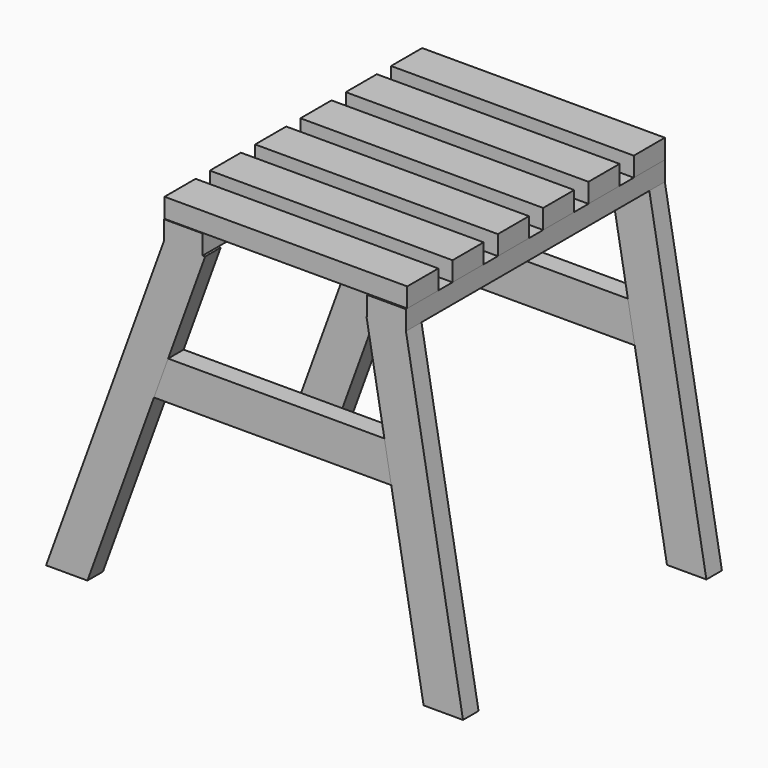
from build123d import *

# Parameters (mm, degrees)
F1_DEPTH  = 24
F2_W      = 48
F2_H      = 24
F3_DEPTH  = 400
F5_DEPTH  = 24
F6_W      = 48
F6_H      = 24
F7_DEPTH  = 300
F8_W      = 48
F8_H      = 24
F9_DEPTH  = 400
F11_DEPTH = 24
F13_DEPTH = 24
F15_DEPTH = 24
F17_DEPTH = 24


with BuildPart() as f1:
    # F0 (on Front) → F1 (new body)
    with BuildSketch(Plane.XZ):
        Polygon((145.588094, 400), (0, 0), (51.080533, 0), (196.668627, 400), align=None)
    extrude(amount=F1_DEPTH)

    # F2 (on face) → F3 (join)
    with BuildSketch(Plane.XZ.offset(24)):
        with Locations((169.588094, 412)):
            Rectangle(F2_W, F2_H)
    extrude(amount=-F3_DEPTH)

    # F4 (on face) → F5 (join)
    with BuildSketch(Plane(origin=(0, 376, 0), x_dir=(-1, 0, 0), z_dir=(0, 1, 0))):
        Polygon((-51.080533, 0), (0, 0), (-145.588094, 400), (-196.668627, 400), align=None)
    extrude(amount=-F5_DEPTH)


with BuildPart() as f7:
    # F6 (on face) → F7 (new body)
    with BuildSketch(Plane(origin=(145.588094, 0, 0), x_dir=(0, -1, 0), z_dir=(-1, 0, 0))):
        with Locations((-351, 436)):
            Rectangle(F6_W, F6_H)
        with Locations((-281, 436)):
            Rectangle(F6_W, F6_H)
        with Locations((-211, 436)):
            Rectangle(F6_W, F6_H)
        with Locations((-141, 436)):
            Rectangle(F6_W, F6_H)
        with Locations((-71, 436)):
            Rectangle(F6_W, F6_H)
        with Locations((-1, 436)):
            Rectangle(F6_W, F6_H)
    extrude(amount=-F7_DEPTH)


with BuildPart() as f9:
    # F8 (on face) → F9 (new body)
    with BuildSketch(Plane(origin=(0, 375, 0), x_dir=(-1, 0, 0), z_dir=(0, 1, 0))):
        with Locations((-421.588094, 412)):
            Rectangle(F8_W, F8_H)
    extrude(amount=-F9_DEPTH)

    # F12 (on face) → F13 (join)
    with BuildSketch(Plane.XZ.offset(25)):
        Polygon((516.118886, 0), (445.588094, 400), (396.847616, 400), (467.378409, 0), align=None)
    extrude(amount=-F13_DEPTH)


with BuildPart() as f11:
    # F10 (on face) → F11 (new body)
    with BuildSketch(Plane(origin=(0, 375, 0), x_dir=(-1, 0, 0), z_dir=(0, 1, 0))):
        Polygon((-396.847616, 400), (-445.588094, 400), (-516.118886, 0), (-467.378409, 0), align=None)
    extrude(amount=-F11_DEPTH)


with BuildPart() as f15:
    # F14 (on face) → F15 (new body)
    with BuildSketch(Plane.XZ.offset(24)):
        Polygon((133.337806, 226), (427.528511, 226), (419.064816, 274), (150.808377, 274), align=None)
    extrude(amount=-F15_DEPTH)


with BuildPart() as f17:
    # F16 (on face) → F17 (new body)
    with BuildSketch(Plane(origin=(0, 375, 0), x_dir=(-1, 0, 0), z_dir=(0, 1, 0))):
        Polygon((-133.337806, 226), (-150.808377, 274), (-419.064816, 274), (-427.528511, 226), align=None)
    extrude(amount=-F17_DEPTH)


solid = Compound([f1.part, f7.part, f9.part, f11.part, f15.part, f17.part])
